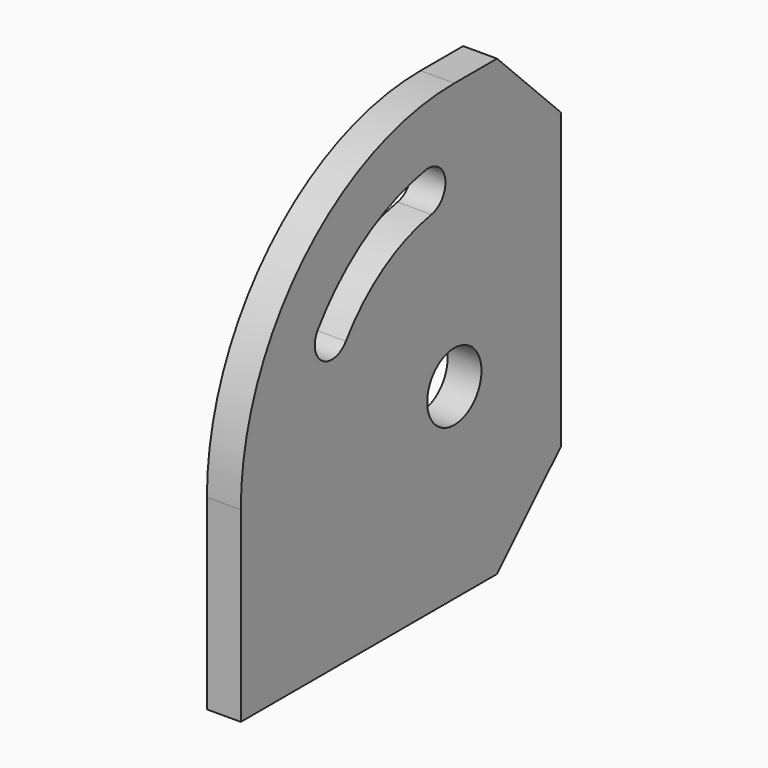
from build123d import *

# Parameters (mm, degrees)
F0_R     = 6.35
F1_DEPTH = 6.35
F2_SIZE  = 15
F4_D     = 4.4
F4_DEPTH = 15
F4_TIP   = 1.3218933619


with BuildPart() as f1:
    # F0 (on Right) → F1 (new body)
    with BuildSketch(Plane.YZ):
        with BuildLine():
            Line((-75, 0), (0, 0))
            Line((0, 0), (0, 85))
            Line((0, 85), (-25, 85))
            ThreePointArc((-25, 85), (-60.3553390593, 70.3553390593), (-75, 35))
            Line((-75, 35), (-75, 0))
        make_face()
        with Locations((-25, 35)):
            Circle(F0_R, mode=Mode.SUBTRACT)
        with BuildLine():
            ThreePointArc((-50.393713373, 52.7808695269), (-55.9646272955, 51.7985670951), (-56.9469297273, 57.3694810177))
            ThreePointArc((-56.9469297273, 57.3694810177), (-45.9546847255, 67.8922663867), (-31.772278929, 73.4075023675))
            ThreePointArc((-31.772278929, 73.4075023675), (-27.1384552063, 70.1628640661), (-30.3830935077, 65.5290403434))
            ThreePointArc((-30.3830935077, 65.5290403434), (-41.6562878588, 61.1451348202), (-50.393713373, 52.7808695269))
        make_face(mode=Mode.SUBTRACT)
    extrude(amount=F1_DEPTH)

    # F2
    f2_edges = [f1.edges().sort_by_distance(p)[0] for p in [
        (3.175, 0, 85),
        (3.175, 0, 0),
    ]]
    chamfer(f2_edges, length=F2_SIZE)

    # F4
    with Locations(Plane(origin=(0, 0, 0), x_dir=(1, 0, 0), z_dir=(0, 0, -1))):
        with Locations((3.175, 65), (3.175, 45), (3.175, 25)):
            Hole(F4_D / 2, depth=F4_DEPTH)
            with Locations((0, 0, -(F4_DEPTH + F4_TIP / 2))):  # 118° drill point
                Cone(0, F4_D / 2, F4_TIP, mode=Mode.SUBTRACT)


solid = f1.part
